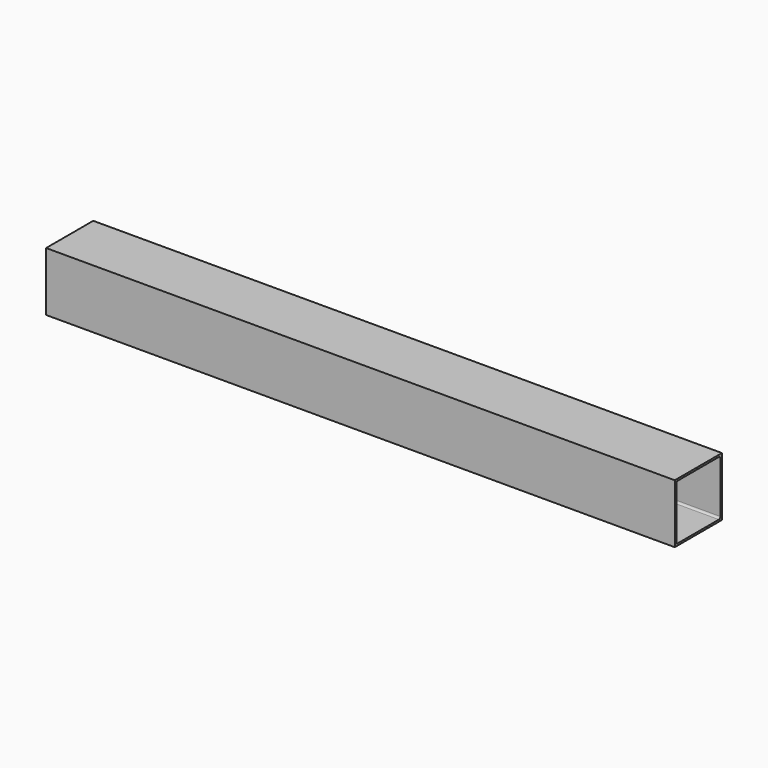
from build123d import *

# Parameters (mm, degrees)
F0_W     = 50.8
F0_H     = 50.8
F1_DEPTH = 541.782


with BuildPart() as f1:
    # F0 (on Right) → F1 (new body)
    with BuildSketch(Plane.YZ):
        Rectangle(F0_W, F0_H)
        with BuildLine():
            Line((-22.098, 23.749), (22.098, 23.749))
            ThreePointArc((22.098, 23.749), (23.265433, 23.265433), (23.749, 22.098))
            Line((23.749, 22.098), (23.749, -22.098))
            ThreePointArc((23.749, -22.098), (23.265433, -23.265433), (22.098, -23.749))
            Line((22.098, -23.749), (-22.098, -23.749))
            ThreePointArc((-22.098, -23.749), (-23.265433, -23.265433), (-23.749, -22.098))
            Line((-23.749, -22.098), (-23.749, 22.098))
            ThreePointArc((-23.749, 22.098), (-23.265433, 23.265433), (-22.098, 23.749))
        make_face(mode=Mode.SUBTRACT)
    extrude(amount=F1_DEPTH)


solid = f1.part
